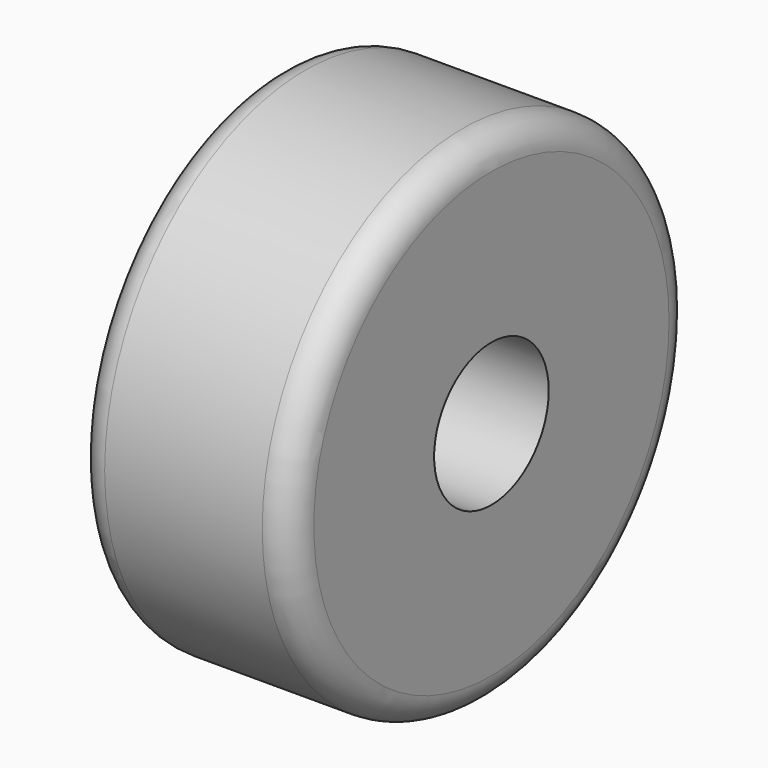
from build123d import *

# Parameters (mm, degrees)
F0_R     = 11.1125
F0_R_2   = 3.175
F1_DEPTH = 4.7625
F2_R     = 1.27


with BuildPart() as f1:
    # F0 (on Right) → F1 (new body, symmetric)
    with BuildSketch(Plane.YZ):
        Circle(F0_R)
        Circle(F0_R_2, mode=Mode.SUBTRACT)
    extrude(amount=F1_DEPTH, both=True)

    # F2
    f2_edges = [f1.edges().sort_by_distance(p)[0] for p in [
        (4.7625, -11.1125, 0),
        (-4.7625, -11.1125, 0),
    ]]
    fillet(f2_edges, radius=F2_R)


solid = f1.part
